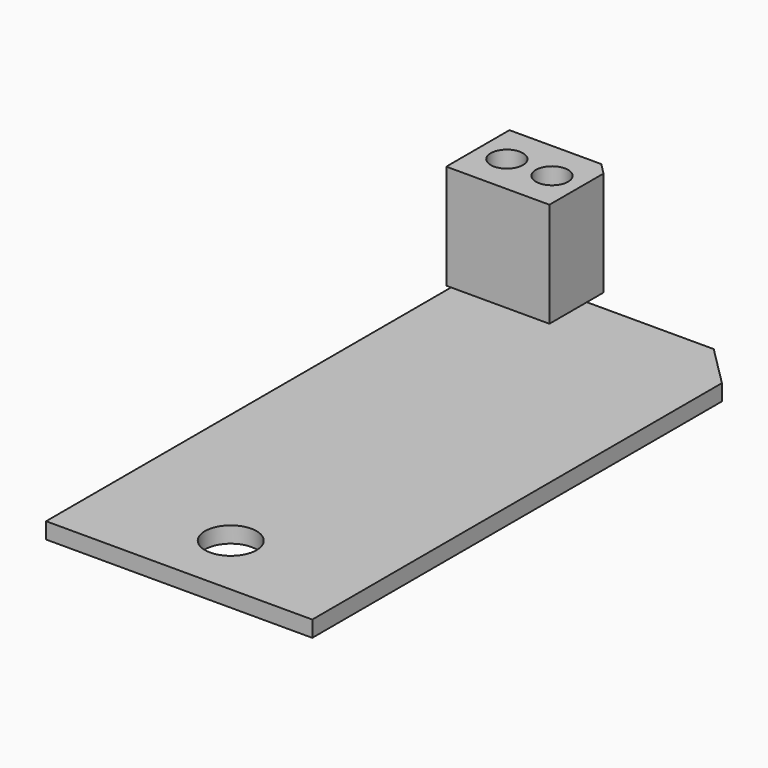
from build123d import *

# Parameters (mm, degrees)
F1_DEPTH = 1
F2_R     = 1.6
F3_DEPTH = 1
F6_DEPTH = 6.5
F7_R     = 1
F8_DEPTH = 6.5


with BuildPart() as f1:
    # F0 (on Top) → F1 (new body)
    with BuildSketch(Plane.XY):
        Polygon((5.715, 17.15), (-8.255, 17.15), (-8.255, -17.15), (8.255, -17.15), (8.255, 14.61), align=None)
    extrude(amount=-F1_DEPTH)

    # F2 (on face) → F3 (cut, through all)
    with BuildSketch(Plane.XY):
        with Locations((0, -13.15)):
            Circle(F2_R)
    extrude(amount=-F3_DEPTH, mode=Mode.SUBTRACT)


with BuildPart() as f6:
    # F5 (on offset) → F6 (new body)
    with BuildSketch(Plane.XY.offset(4)):
        Polygon((1.937893, 13.15), (-3.755, 13.15), (-3.755, 8.25), (2.645, 8.25), (2.645, 12.442893), align=None)
    extrude(amount=F6_DEPTH)

    # F7 (on face) → F8 (cut, through all)
    with BuildSketch(Plane.XY.offset(10.5)):
        with Locations((-1.955, 10.7)):
            Circle(F7_R)
        with Locations((0.845, 10.7)):
            Circle(F7_R)
    extrude(amount=-F8_DEPTH, mode=Mode.SUBTRACT)


solid = Compound([f1.part, f6.part])
